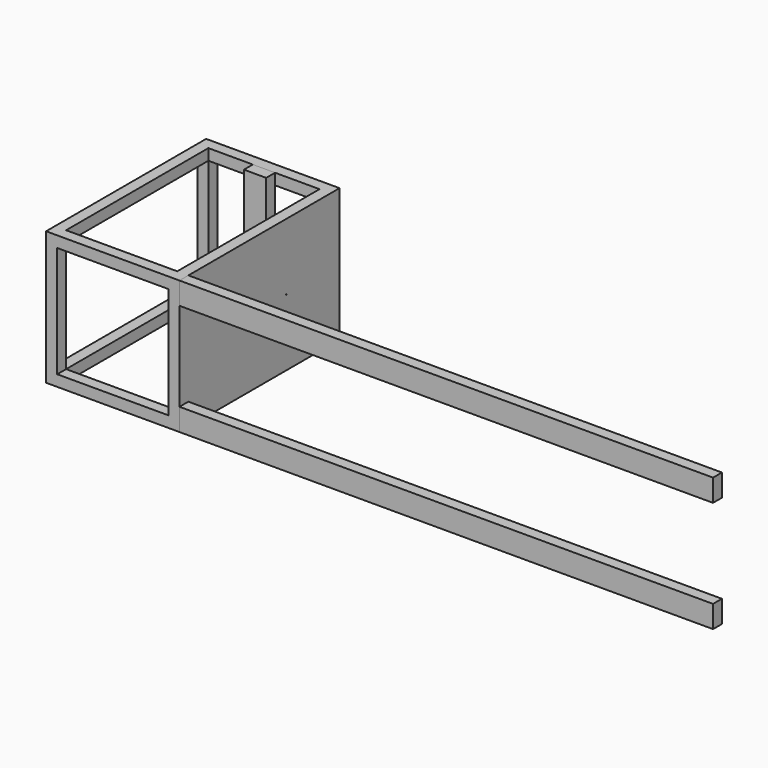
from build123d import *

# Parameters (mm, degrees)
F0_W      = 609.6
F0_H      = 914.4
F0_W_2    = 508
F0_H_2    = 812.8
F1_DEPTH  = 609.6
F2_W      = 508
F2_H      = 508
F3_DEPTH  = 50.8
F4_W      = 508
F4_H      = 508
F5_DEPTH  = 50.8
F6_W      = 812.8
F6_H      = 508
F7_DEPTH  = 50.8
F8_W      = 50.8
F8_H      = 101.6
F9_DEPTH  = 2438.4
F10_D     = 4.7625
F11_W     = 101.6
F11_H     = 609.6
F12_DEPTH = 50.8


with BuildPart() as f1:
    # F0 (on Top) → F1 (new body)
    with BuildSketch(Plane.XY):
        Rectangle(F0_W, F0_H)
        Rectangle(F0_W_2, F0_H_2, mode=Mode.SUBTRACT)
    extrude(amount=F1_DEPTH)

    # F2 (on face) → F3 (cut)
    with BuildSketch(Plane.XZ.offset(457.2)):
        with Locations((0, 304.8)):
            Rectangle(F2_W, F2_H)
    extrude(amount=-F3_DEPTH, mode=Mode.SUBTRACT)

    # F4 (on face) → F5 (cut)
    with BuildSketch(Plane(origin=(0, 457.2, 0), x_dir=(-1, 0, 0), z_dir=(0, 1, 0))):
        with Locations((0, 304.8)):
            Rectangle(F4_W, F4_H)
    extrude(amount=-F5_DEPTH, mode=Mode.SUBTRACT)

    # F6 (on face) → F7 (cut)
    with BuildSketch(Plane(origin=(-304.8, 0, 0), x_dir=(0, -1, 0), z_dir=(-1, 0, 0))):
        with Locations((0, 304.8)):
            Rectangle(F6_W, F6_H)
    extrude(amount=-F7_DEPTH, mode=Mode.SUBTRACT)

    # F10 (through all)
    with Locations(Plane.YZ.offset(304.8)):
        with Locations((152.4, 304.8)):
            Hole(F10_D / 2)


with BuildPart() as f9:
    # F8 (on face) → F9 (new body)
    with BuildSketch(Plane.YZ.offset(304.8)):
        with Locations((-431.8, 558.8)):
            Rectangle(F8_W, F8_H)
        with Locations((-431.8, 50.8)):
            Rectangle(F8_W, F8_H)
    extrude(amount=F9_DEPTH)


with BuildPart() as f12:
    # F11 (on face) → F12 (new body)
    with BuildSketch(Plane.XZ.offset(-406.4)):
        with Locations((0, 304.8)):
            Rectangle(F11_W, F11_H)
        with Locations((0, 304.8)):
            Rectangle(F11_W, F11_H)
    extrude(amount=F12_DEPTH)


solid = Compound([f1.part, f9.part, f12.part])
